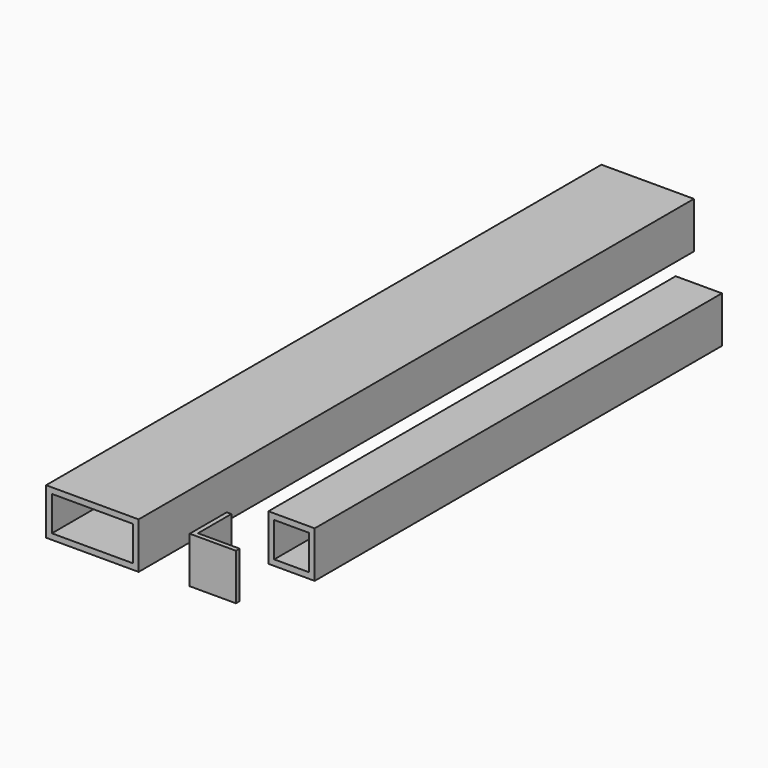
from build123d import *

# Parameters (mm, degrees)
F0_W     = 50.8
F0_H     = 381
F1_DEPTH = 25.4
F2_T     = -3.175
F3_W     = 25.4
F3_H     = 279.4
F4_DEPTH = 25.4
F5_T     = -3.175
F7_DEPTH = 25.4


with BuildPart() as f1:
    # F0 (on Top) → F1 (new body)
    with BuildSketch(Plane.XY):
        with Locations((-30.883574, 121.664288)):
            Rectangle(F0_W, F0_H)
    extrude(amount=F1_DEPTH)

    # F2
    f2_openings = [f1.faces().sort_by_distance(p)[0] for p in [
        (-30.883574, -68.835712, 12.7),
        (-30.883574, 312.164288, 12.7),
    ]]
    offset(amount=F2_T, openings=f2_openings)


with BuildPart() as f4:
    # F3 (on Top) → F4 (new body)
    with BuildSketch(Plane.XY):
        with Locations((45.951802, 111.498697)):
            Rectangle(F3_W, F3_H)
    extrude(amount=F4_DEPTH)

    # F5
    f5_openings = [f4.faces().sort_by_distance(p)[0] for p in [
        (45.951802, -28.201303, 12.7),
        (45.951802, 251.198697, 12.7),
    ]]
    offset(amount=F5_T, openings=f5_openings)


with BuildPart() as f7:
    # F6 (on Top) → F7 (new body)
    with BuildSketch(Plane.XY):
        Polygon((22.437792, -40.135192), (19.897792, -40.135192), (19.897792, -65.535192), (45.297792, -65.535192), (45.297792, -62.995192), (22.437792, -62.995192), align=None)
    extrude(amount=F7_DEPTH)


solid = Compound([f1.part, f4.part, f7.part])
